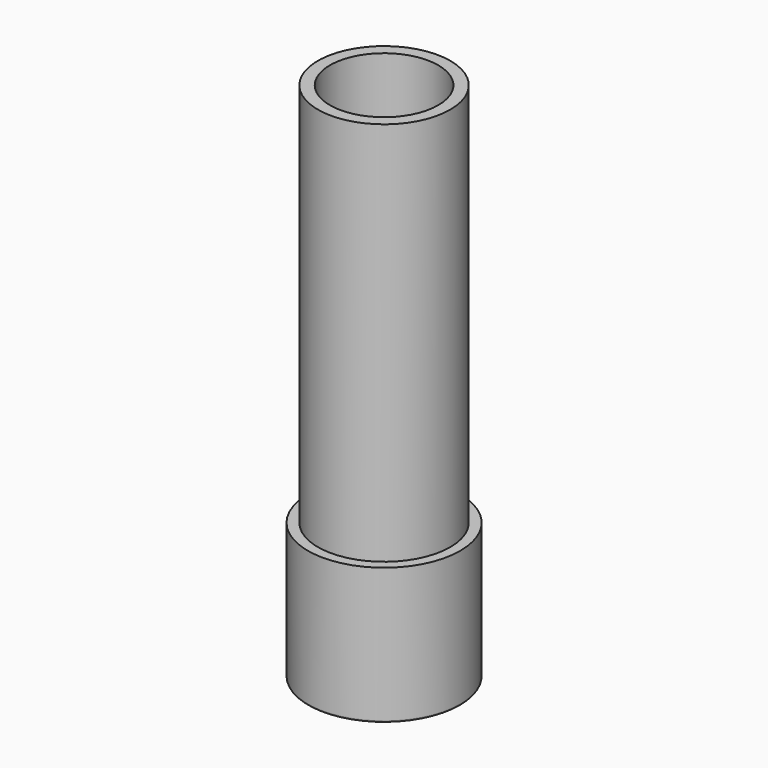
from build123d import *

# Parameters (mm, degrees)
F0_R     = 9.5
F1_DEPTH = 65
F2_R     = 0.2
F3_R     = 9.5
F3_R_2   = 8.25
F4_DEPTH = 48
F5_R     = 7.8
F6_DEPTH = 1.6
F7_T     = -1.5


with BuildPart() as f1:
    # F0 (on Top) → F1 (new body)
    with BuildSketch(Plane.XY):
        Circle(F0_R)
    extrude(amount=F1_DEPTH)

    # F2
    f2_edges = [f1.edges().sort_by_distance(p)[0] for p in [
        (-9.5, 0, 0),
    ]]
    fillet(f2_edges, radius=F2_R)

    # F3 (on face) → F4 (cut)
    with BuildSketch(Plane.XY.offset(65)):
        Circle(F3_R)
        Circle(F3_R_2, mode=Mode.SUBTRACT)
    extrude(amount=-F4_DEPTH, mode=Mode.SUBTRACT)

    # F5 (on face) → F6 (cut)
    with BuildSketch(Plane(origin=(0, 0, 0), x_dir=(1, 0, 0), z_dir=(0, 0, -1))):
        Circle(F5_R)
    extrude(amount=-F6_DEPTH, mode=Mode.SUBTRACT)

    # F7
    f7_openings = [f1.faces().sort_by_distance(p)[0] for p in [
        (0, 0, 65),
    ]]
    offset(amount=F7_T, openings=f7_openings, kind=Kind.INTERSECTION)


solid = f1.part
